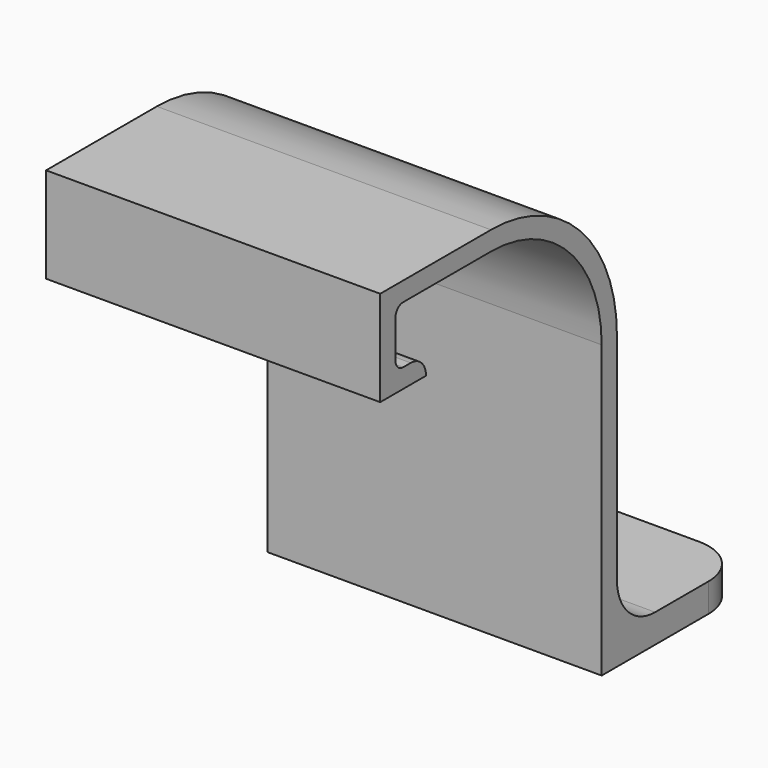
from build123d import *

# Parameters (mm, degrees)
F1_DEPTH = 35
F2_W     = 35
F2_H     = 3
F3_DEPTH = 17
F4_W     = 10
F4_H     = 10
F5_DEPTH = 1.5
F6_SIZE  = 3
F7_R     = 5


with BuildPart() as f1:
    # F0 (on Right) → F1 (new body)
    with BuildSketch(Plane.YZ):
        with BuildLine():
            ThreePointArc((-29, 44), (-28.7071067812, 44.7071067812), (-28, 45))
            Line((-28, 45), (-16.5, 45))
            ThreePointArc((-16.5, 45), (-6.2469516728, 40.7530483272), (-2, 30.5))
            Line((-2, 30.5), (-2, 0))
            Line((-2, 0), (0, 0))
            Line((0, 0), (0, 30.5))
            ThreePointArc((0, 30.5), (-4.8327381104, 42.1672618896), (-16.5, 47))
            Line((-16.5, 47), (-31, 47))
            Line((-31, 47), (-31, 37))
            Line((-31, 37), (-25, 37))
            ThreePointArc((-25, 37), (-25.5857864376, 38.4142135624), (-27, 39))
            Line((-27, 39), (-28, 39))
            ThreePointArc((-28, 39), (-28.7071067812, 39.2928932188), (-29, 40))
            Line((-29, 40), (-29, 44))
        make_face()
    extrude(amount=F1_DEPTH)

    # F2 (on face) → F3 (join)
    with BuildSketch(Plane(origin=(0, 0, 0), x_dir=(-1, 0, 0), z_dir=(0, 1, 0))):
        with Locations((-17.5, 1.5)):
            Rectangle(F2_W, F2_H)
    extrude(amount=F3_DEPTH)

    # F4 (on face) → F5 (cut)
    with BuildSketch(Plane(origin=(0, 0, 0), x_dir=(1, 0, 0), z_dir=(0, 0, -1))):
        with Locations((17.5, -7.5)):
            Rectangle(F4_W, F4_H)
    extrude(amount=-F5_DEPTH, mode=Mode.SUBTRACT)

    # F6
    f6_edges = [f1.edges().sort_by_distance(p)[0] for p in [
        (22.5, 2.5, 0.75),
        (22.5, 12.5, 0.75),
        (12.5, 12.5, 0.75),
        (12.5, 2.5, 0.75),
    ]]
    chamfer(f6_edges, length=F6_SIZE)

    # F7
    f7_edges = [f1.edges().sort_by_distance(p)[0] for p in [
        (0, 17, 1.5),
        (35, 17, 1.5),
        (17.5, 0, 3),
    ]]
    fillet(f7_edges, radius=F7_R)


solid = f1.part
